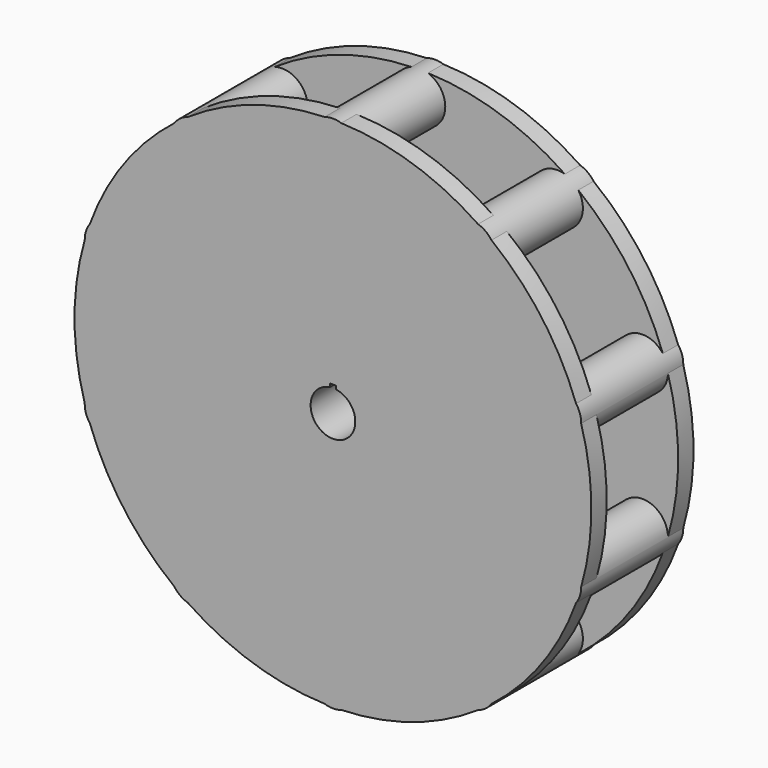
from build123d import *

# Parameters (mm, degrees)
F0_R     = 128.5875
F1_DEPTH = 63.5
F2_W     = 44.45
F2_H     = 101.6
F4_R     = 12.7
F5_DEPTH = 63.5
F7_DEPTH = 63.501


with BuildPart() as f1:
    # F0 (on Front) → F1 (new body)
    with BuildSketch(Plane.XZ):
        Circle(F0_R)
    extrude(amount=F1_DEPTH)

    # F2 (on Right) → F3 (revolve, cut)
    with BuildSketch(Plane.YZ):
        with Locations((-31.75, 88.9)):
            Rectangle(F2_W, F2_H)
    revolve(axis=Axis((0, -121.1639214932, 0), (0, 1, 0)), mode=Mode.SUBTRACT)

    # F4 (on face) → F5 (join, through all)
    with BuildSketch(Plane.XZ.offset(63.5)):
        with Locations((0, 116.5098)):
            Circle(F4_R)
        with Locations((-68.4827421875, 94.2584082112)):
            Circle(F4_R)
        with Locations((-110.8074045022, 36.0035082112)):
            Circle(F4_R)
        with Locations((-110.8074045022, -36.0035082112)):
            Circle(F4_R)
        with Locations((-68.4827421875, -94.2584082112)):
            Circle(F4_R)
        with Locations((0, -116.5098)):
            Circle(F4_R)
        with Locations((68.4827421875, -94.2584082112)):
            Circle(F4_R)
        with Locations((110.8074045022, -36.0035082112)):
            Circle(F4_R)
        with Locations((110.8074045022, 36.0035082112)):
            Circle(F4_R)
        with Locations((68.4827421875, 94.2584082112)):
            Circle(F4_R)
    extrude(amount=-F5_DEPTH)

    # F6 (on face) → F7 (cut, through all)
    with BuildSketch(Plane.XZ.offset(63.5)):
        with BuildLine():
            Line((-1.5875, 12.7), (-1.5875, 10.9985226281))
            ThreePointArc((-1.5875, 10.9985226281), (0, -11.1125), (1.5875, 10.9985226281))
            Line((1.5875, 10.9985226281), (1.5875, 12.7))
            Line((1.5875, 12.7), (-1.5875, 12.7))
        make_face()
    extrude(amount=-F7_DEPTH, mode=Mode.SUBTRACT)


solid = f1.part
